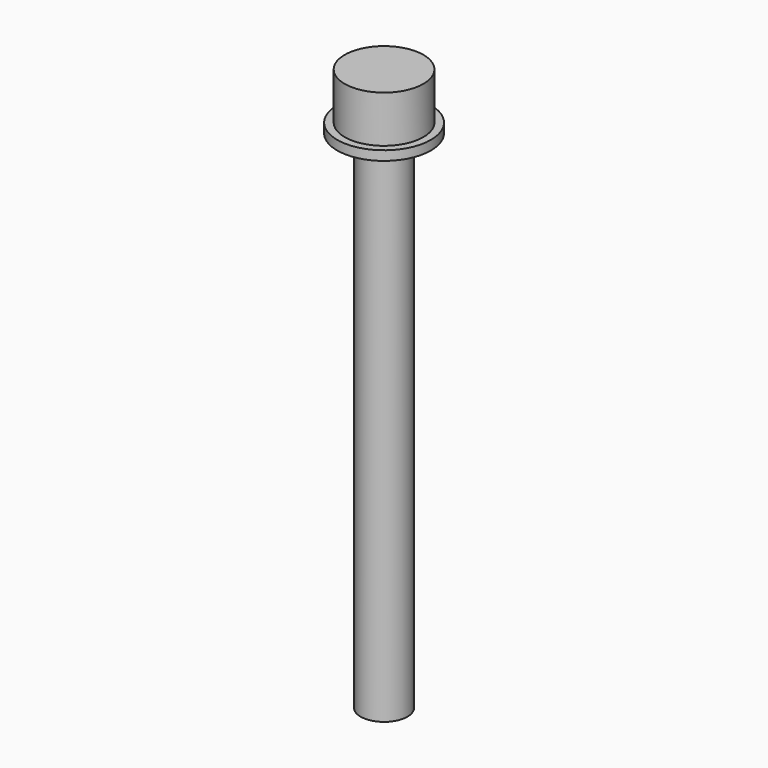
from build123d import *

# Parameters (mm, degrees)
F0_R     = 2.5
F1_DEPTH = 55
F2_R     = 4.2
F3_DEPTH = 5
F4_R     = 5
F5_DEPTH = 1


with BuildPart() as f1:
    # F0 (on Top) → F1 (new body)
    with BuildSketch(Plane.XY):
        Circle(F0_R)
    extrude(amount=-F1_DEPTH)

    # F2 (on Top) → F3 (join)
    with BuildSketch(Plane.XY):
        Circle(F2_R)
    extrude(amount=F3_DEPTH)

    # F4 (on Top) → F5 (join)
    with BuildSketch(Plane.XY):
        Circle(F4_R)
    extrude(amount=-F5_DEPTH)


solid = f1.part
